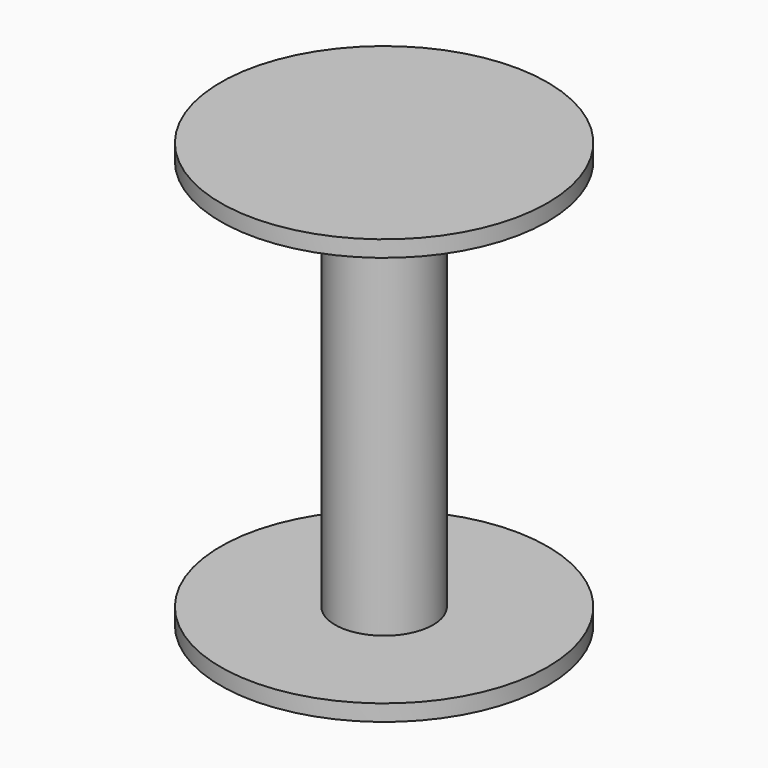
from build123d import *

# Parameters (mm, degrees)
F0_R     = 25.4
F0_R_2   = 7.62
F1_DEPTH = 2.54
F2_DEPTH = 63.5
F3_R     = 25.4
F3_R_2   = 7.62
F4_DEPTH = 2.54


with BuildPart() as f1:
    # F0 (on Top) → F1 (new body)
    with BuildSketch(Plane.XY):
        Circle(F0_R)
        Circle(F0_R_2, mode=Mode.SUBTRACT)
    extrude(amount=F1_DEPTH)

    # F0 (on Top) → F2 (join)
    with BuildSketch(Plane.XY):
        Circle(F0_R_2)
    extrude(amount=F2_DEPTH)

    # F3 (on face) → F4 (join)
    with BuildSketch(Plane.XY.offset(63.5)):
        Circle(F3_R)
        Circle(F3_R_2)
    extrude(amount=F4_DEPTH)


solid = f1.part
